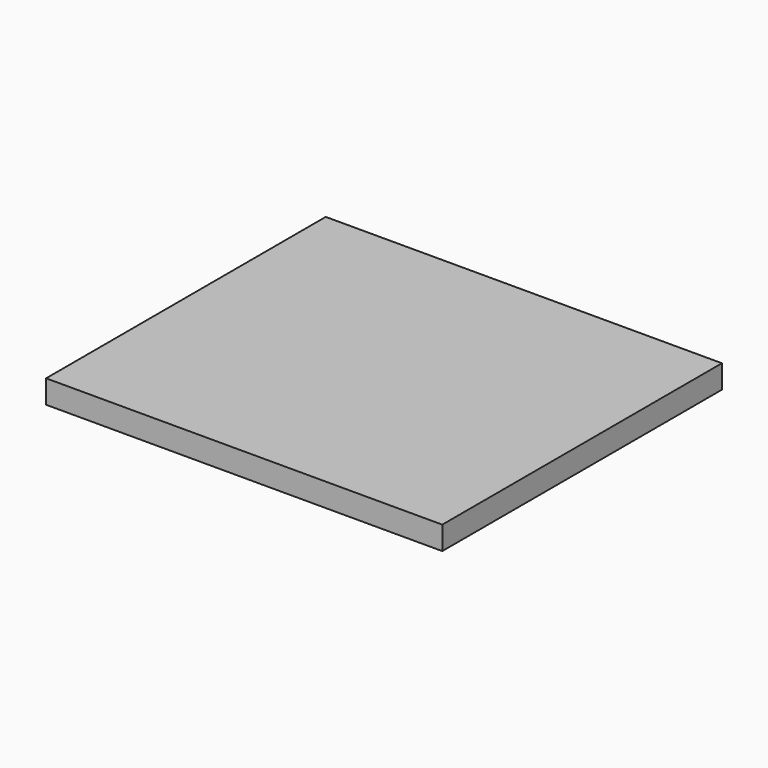
from build123d import *

# Parameters (mm, degrees)
F0_W     = 85
F0_H     = 75
F1_DEPTH = 5
F3_DEPTH = 15


with BuildPart() as f1:
    # F0 (on Top) → F1 (new body)
    with BuildSketch(Plane.XY):
        with Locations((-27.537888, 6.086919)):
            Rectangle(F0_W, F0_H)
    extrude(amount=F1_DEPTH)

    # F2 (on face) → F3 (join)
    with BuildSketch(Plane(origin=(0, 0, 0), x_dir=(1, 0, 0), z_dir=(0, 0, -1))):
        with BuildLine():
            ThreePointArc((-47.554573, -29.086919), (-47.542061, -28.837059), (-47.537888, -28.586919))
            ThreePointArc((-47.537888, -28.586919), (-47.542061, -28.33678), (-47.554573, -28.086919))
            ThreePointArc((-47.554573, -28.086919), (-49.734587, -23.283619), (-54.537888, -21.103605))
            ThreePointArc((-54.537888, -21.103605), (-55.037888, -21.086919), (-55.537888, -21.103605))
            ThreePointArc((-55.537888, -21.103605), (-60.342111, -23.284541), (-62.521376, -28.089523))
            ThreePointArc((-62.521376, -28.089523), (-62.537888, -28.589529), (-62.521028, -29.089523))
            ThreePointArc((-62.521028, -29.089523), (-60.340266, -33.891143), (-55.537888, -36.070234))
            ThreePointArc((-55.537888, -36.070234), (-55.037888, -36.086919), (-54.537888, -36.070234))
            ThreePointArc((-54.537888, -36.070234), (-49.734587, -33.89022), (-47.554573, -29.086919))
        make_face()
        with BuildLine():
            ThreePointArc((-62.521028, -29.089523), (-62.537888, -28.589529), (-62.521376, -28.089523))
            Line((-62.521376, -28.089523), (-63.537888, -28.089523))
            Line((-63.537888, -28.089523), (-63.537888, -29.089523))
            Line((-63.537888, -29.089523), (-62.521028, -29.089523))
        make_face()
        with BuildLine():
            ThreePointArc((-47.554573, -28.086919), (-47.542061, -28.33678), (-47.537888, -28.586919))
            ThreePointArc((-47.537888, -28.586919), (-47.542061, -28.837059), (-47.554573, -29.086919))
            Line((-47.554573, -29.086919), (-46.537888, -29.086919))
            Line((-46.537888, -29.086919), (-46.537888, -28.086919))
            Line((-46.537888, -28.086919), (-47.554573, -28.086919))
        make_face()
        with BuildLine():
            ThreePointArc((-55.537888, -21.103605), (-55.037888, -21.086919), (-54.537888, -21.103605))
            Line((-54.537888, -21.103605), (-54.537888, -20.086919))
            Line((-54.537888, -20.086919), (-55.537888, -20.086919))
            Line((-55.537888, -20.086919), (-55.537888, -21.103605))
        make_face()
        with BuildLine():
            Line((-54.537888, -37.086919), (-54.537888, -36.070234))
            ThreePointArc((-54.537888, -36.070234), (-55.037888, -36.086919), (-55.537888, -36.070234))
            Line((-55.537888, -36.070234), (-55.537888, -37.086919))
            Line((-55.537888, -37.086919), (-54.537888, -37.086919))
        make_face()
    extrude(amount=F3_DEPTH)


solid = f1.part
